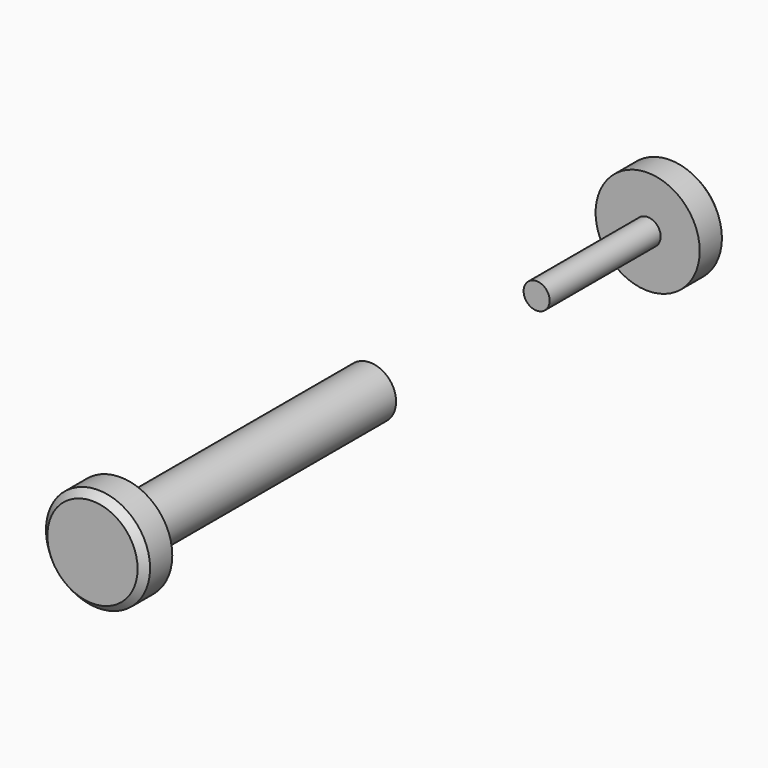
from build123d import *

# Parameters (mm, degrees)
F0_R      = 1.5
F0_R_2    = 0.75
F1_DEPTH  = 1
F2_DEPTH  = 9
F3_R      = 0.375
F4_DEPTH  = 4
F6_R      = 1.5
F6_R_2    = 0.375
F7_DEPTH  = 1
F8_DEPTH  = 5
F9_SIZE   = 0.2
F9_2_SIZE = 0.2


with BuildPart() as f1:
    # F0 (on Front) → F1 (new body)
    with BuildSketch(Plane.XZ):
        Circle(F0_R)
        Circle(F0_R_2, mode=Mode.SUBTRACT)
        Circle(F0_R_2)
    extrude(amount=F1_DEPTH)

    # F0 (on Front) → F2 (join)
    with BuildSketch(Plane.XZ):
        Circle(F0_R_2)
    extrude(amount=-F2_DEPTH)

    # F3 (on face) → F4 (cut)
    with BuildSketch(Plane(origin=(0, 9, 0), x_dir=(-1, 0, 0), z_dir=(0, 1, 0))):
        Circle(F3_R)
    extrude(amount=-F4_DEPTH, mode=Mode.SUBTRACT)

    # F9
    f9_edges = [f1.edges().sort_by_distance(p)[0] for p in [
        (-1.5, -1, 0),
    ]]
    chamfer(f9_edges, length=F9_SIZE)


with BuildPart() as f7:
    # F6 (on offset) → F7 (new body)
    with BuildSketch(Plane.XZ.offset(-20)):
        Circle(F6_R)
        Circle(F6_R_2, mode=Mode.SUBTRACT)
        Circle(F6_R_2)
    extrude(amount=F7_DEPTH)

    # F6 (on offset) → F8 (join)
    with BuildSketch(Plane.XZ.offset(-20)):
        Circle(F6_R_2)
    extrude(amount=F8_DEPTH)

    # F9#2
    f9_2_edges = [f7.edges().sort_by_distance(p)[0] for p in [
        (-1.5, 20, 0),
    ]]
    chamfer(f9_2_edges, length=F9_2_SIZE)


solid = Compound([f1.part, f7.part])
